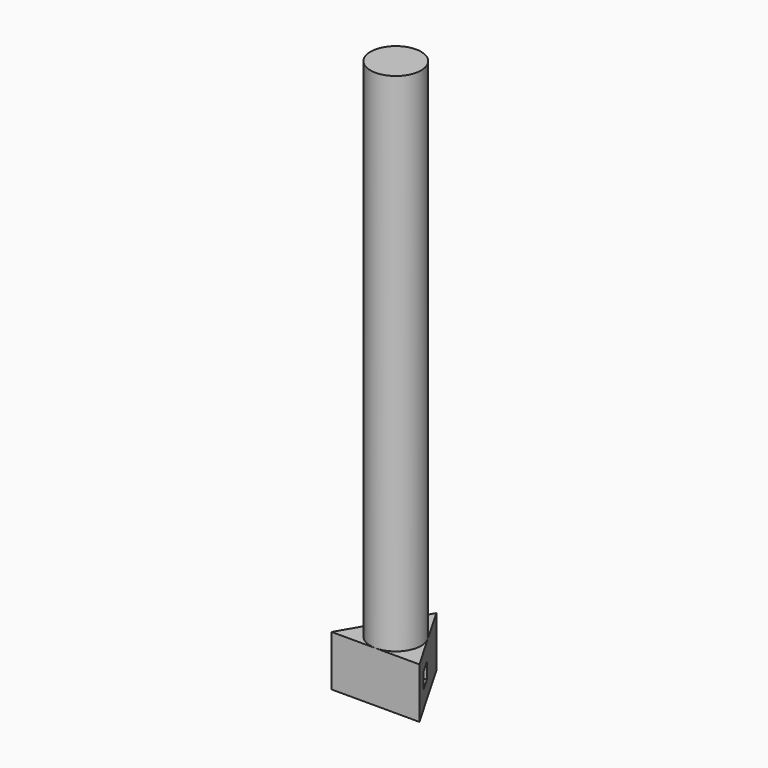
from build123d import *

# Parameters (mm, degrees)
PAD_DEPTH    = 8
SKETCH002_W  = 2.5
SKETCH002_H  = 2.5
POCKET_DEPTH = 12.929203
SKETCH001_R  = 4
PAD001_DEPTH = 80


with BuildPart() as part:
    # Sketch → Pad (new body)
    with BuildSketch(Plane.XY):
        Polygon((-6.928203, -4), (0, 8), (6.928203, -4), align=None)
    extrude(amount=PAD_DEPTH)

    # Sketch002 (on DatumPlane) → Pocket (cut, through all)
    with BuildSketch(Plane(origin=(6, 0, 4), x_dir=(0, 1, 0), z_dir=(1, 0, 0))):
        Rectangle(SKETCH002_W, SKETCH002_H)
    extrude(amount=-POCKET_DEPTH, mode=Mode.SUBTRACT)

    with BuildSketch(Plane.XY.offset(8)):
        Circle(SKETCH001_R)
    extrude(amount=PAD001_DEPTH)


solid = part.part
